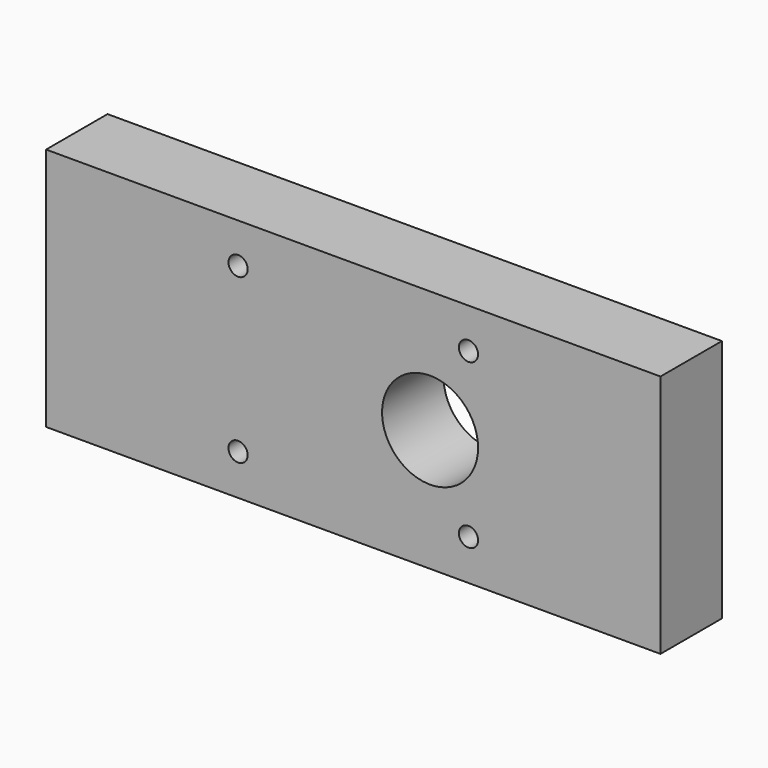
from build123d import *

# Parameters (mm, degrees)
F0_W     = 203.2
F0_H     = 80.772
F0_R     = 3.175
F0_R_2   = 15.875
F1_DEPTH = 25.4


with BuildPart() as f1:
    # F0 (on Front) → F1 (new body)
    with BuildSketch(Plane.XZ):
        with Locations((-38.1, -2.557381)):
            Rectangle(F0_W, F0_H)
        with Locations((-76.2, -29.479381)):
            Circle(F0_R, mode=Mode.SUBTRACT)
        with Locations((0, -29.479381)):
            Circle(F0_R, mode=Mode.SUBTRACT)
        with Locations((-12.7, -2.557381)):
            Circle(F0_R_2, mode=Mode.SUBTRACT)
        with Locations((-76.2, 24.620619)):
            Circle(F0_R, mode=Mode.SUBTRACT)
        with Locations((0, 24.620619)):
            Circle(F0_R, mode=Mode.SUBTRACT)
    extrude(amount=F1_DEPTH)


solid = f1.part
